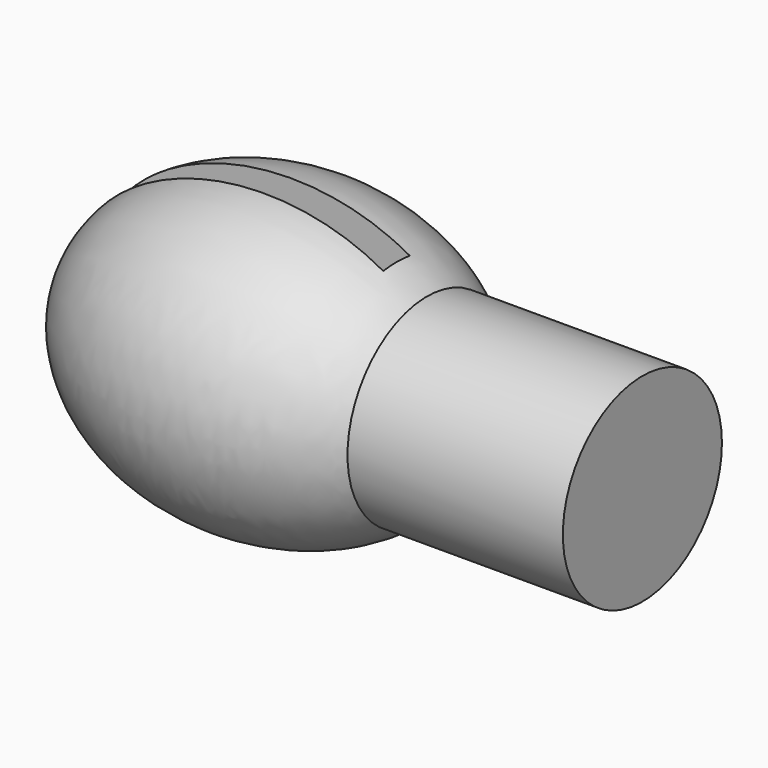
from build123d import *

# Parameters (mm, degrees)
F3_DEPTH = 12.5
F4_R     = 3
F5_DEPTH = 6.5
F6_W     = 19
F6_H     = 1
F7_DEPTH = 12.5


with BuildPart() as f1:
    # F0 (on Front) → F1 (revolve)
    with BuildSketch(Plane.XZ):
        with BuildLine():
            Line((-6, 0), (6, 0))
            add(Edge.make_bspline(
                [(6, 0), (6, 4.5), (0, 4.5), (-6, 4.5), (-6, 0)],
                knots=[0, 0, 0, 1.570796, 1.570796, 3.141593, 3.141593, 3.141593], degree=2, weights=[1, 0.707107, 1, 0.707107, 1]))
        make_face()
    revolve(axis=Axis((0, 0, 0), (1, 0, 0)))

    # F2 (on Front) → F3 (cut, symmetric)
    with BuildSketch(Plane.XZ):
        Polygon((4.5, 3.597936), (4.5, 3), (4.5, -3), (4.508256, -3.78867), (6.380918, -3.78867), (6.380918, 3.597936), align=None)
    extrude(amount=F3_DEPTH, both=True, mode=Mode.SUBTRACT)

    # F4 (on face) → F5 (join)
    with BuildSketch(Plane.YZ.offset(4.5)):
        Circle(F4_R)
    extrude(amount=F5_DEPTH)

    # F6 (on Top) → F7 (cut, symmetric)
    with BuildSketch(Plane.XY):
        with Locations((-5.921029, 0)):
            Rectangle(F6_W, F6_H)
    extrude(amount=F7_DEPTH, both=True, mode=Mode.SUBTRACT)


solid = f1.part
